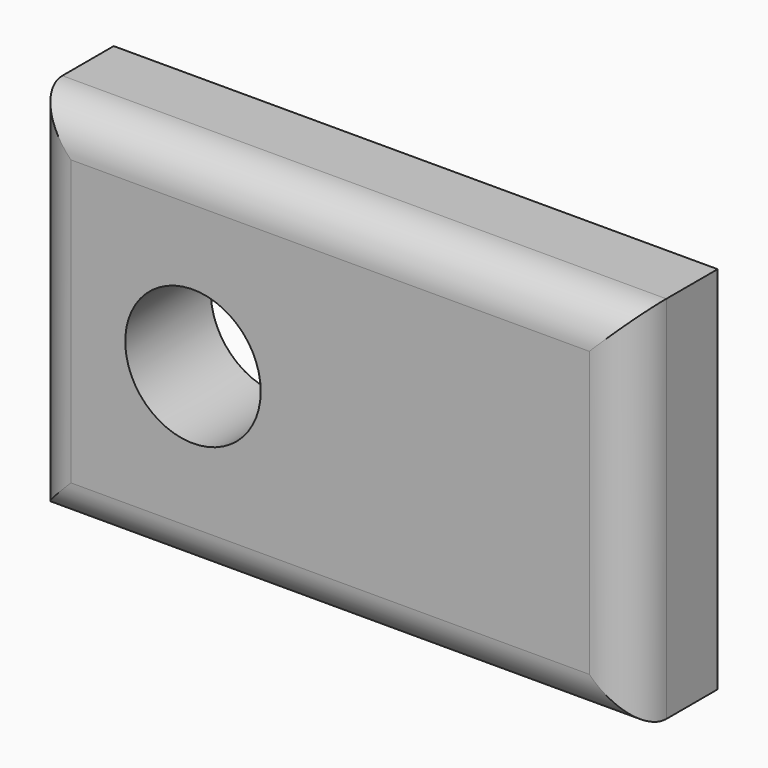
from build123d import *

# Parameters (mm, degrees)
F0_W     = 28.243152
F0_H     = 17.298024
F1_DEPTH = 5
F2_R     = 2
F3_R     = 3.167905
F4_DEPTH = 25


with BuildPart() as f1:
    # F0 (on Front) → F1 (new body)
    with BuildSketch(Plane.XZ):
        with Locations((14.121576, -8.649012)):
            Rectangle(F0_W, F0_H)
    extrude(amount=F1_DEPTH)

    # F2
    f2_edges = [f1.edges().sort_by_distance(p)[0] for p in [
        (14.121576, -5, -17.298024),
        (28.243152, -5, -8.649012),
        (14.121576, -5, 0),
        (0, -5, -8.649012),
    ]]
    fillet(f2_edges, radius=F2_R)

    # F3 (on face) → F4 (cut)
    with BuildSketch(Plane.XZ.offset(5)):
        with Locations((7.708723, -8.649012)):
            Circle(F3_R)
    extrude(amount=-F4_DEPTH, mode=Mode.SUBTRACT)


solid = f1.part
